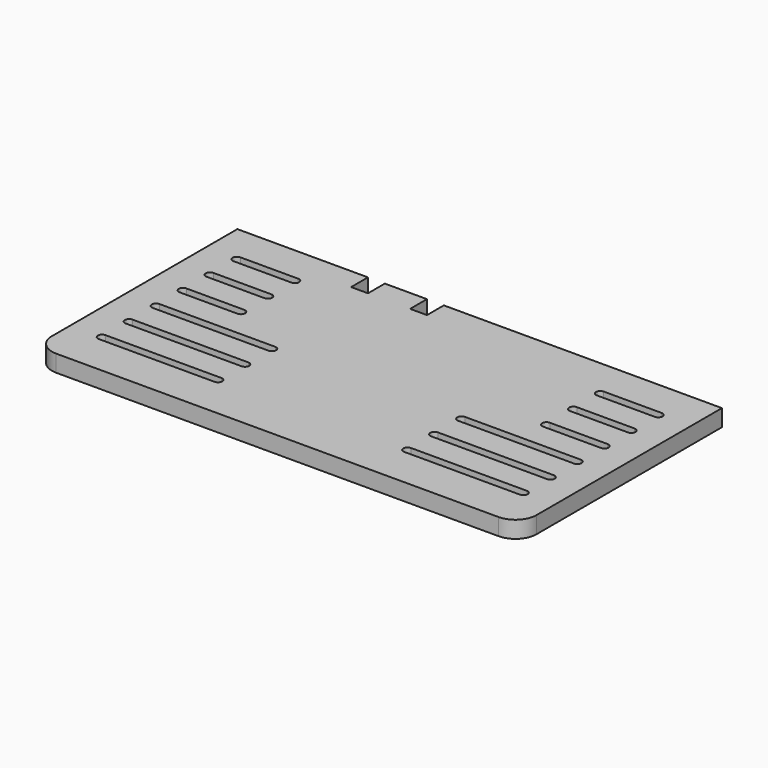
from build123d import *

# Parameters (mm, degrees)
F1_DEPTH = 8
F2_R     = 10


with BuildPart() as f1:
    # F0 (on Top) → F1 (new body)
    with BuildSketch(Plane.XY):
        Polygon((16.4421471655, -13.5372191966), (-45.5578528345, -13.5372191966), (-45.5578528345, -133.5372191966), (184.4421471655, -133.5372191966), (184.4421471655, -13.5372191966), (52.4421471655, -13.5372191966), (52.4421471655, -23.5372191966), (44.4421471655, -23.5372191966), (44.4421471655, -13.5372191966), (24.4421471655, -13.5372191966), (24.4421471655, -23.5372191966), (16.4421471655, -23.5372191966), align=None)
        with BuildLine():
            ThreePointArc((-30.5578528345, -114.5372191966), (-32.5578528345, -112.5372191966), (-30.5578528345, -110.5372191966))
            Line((-30.5578528345, -110.5372191966), (24.4421471655, -110.5372191966))
            ThreePointArc((24.4421471655, -110.5372191966), (26.4421471655, -112.5372191966), (24.4421471655, -114.5372191966))
            Line((24.4421471655, -114.5372191966), (-30.5578528345, -114.5372191966))
        make_face(mode=Mode.SUBTRACT)
        with BuildLine():
            ThreePointArc((-30.5578528345, -98.5372191966), (-32.5578528345, -96.5372191966), (-30.5578528345, -94.5372191966))
            Line((-30.5578528345, -94.5372191966), (24.4421471655, -94.5372191966))
            ThreePointArc((24.4421471655, -94.5372191966), (26.4421471655, -96.5372191966), (24.4421471655, -98.5372191966))
            Line((24.4421471655, -98.5372191966), (-30.5578528345, -98.5372191966))
        make_face(mode=Mode.SUBTRACT)
        with BuildLine():
            Line((24.4421471655, -82.5372191966), (-30.5578528345, -82.5372191966))
            ThreePointArc((-30.5578528345, -82.5372191966), (-32.5578528345, -80.5372191966), (-30.5578528345, -78.5372191966))
            Line((-30.5578528345, -78.5372191966), (24.4421471655, -78.5372191966))
            ThreePointArc((24.4421471655, -78.5372191966), (26.4421471655, -80.5372191966), (24.4421471655, -82.5372191966))
        make_face(mode=Mode.SUBTRACT)
        with BuildLine():
            ThreePointArc((169.4421471655, -110.5372191966), (171.4421471655, -112.5372191966), (169.4421471655, -114.5372191966))
            Line((169.4421471655, -114.5372191966), (114.4421471655, -114.5372191966))
            ThreePointArc((114.4421471655, -114.5372191966), (112.4421471655, -112.5372191966), (114.4421471655, -110.5372191966))
            Line((114.4421471655, -110.5372191966), (169.4421471655, -110.5372191966))
        make_face(mode=Mode.SUBTRACT)
        with BuildLine():
            ThreePointArc((169.4421471655, -94.5372191966), (171.4421471655, -96.5372191966), (169.4421471655, -98.5372191966))
            Line((169.4421471655, -98.5372191966), (114.4421471655, -98.5372191966))
            ThreePointArc((114.4421471655, -98.5372191966), (112.4421471655, -96.5372191966), (114.4421471655, -94.5372191966))
            Line((114.4421471655, -94.5372191966), (169.4421471655, -94.5372191966))
        make_face(mode=Mode.SUBTRACT)
        with BuildLine():
            ThreePointArc((169.4421471655, -78.5372191966), (171.4421471655, -80.5372191966), (169.4421471655, -82.5372191966))
            Line((169.4421471655, -82.5372191966), (114.4421471655, -82.5372191966))
            ThreePointArc((114.4421471655, -82.5372191966), (112.4421471655, -80.5372191966), (114.4421471655, -78.5372191966))
            Line((114.4421471655, -78.5372191966), (169.4421471655, -78.5372191966))
        make_face(mode=Mode.SUBTRACT)
        with BuildLine():
            Line((-3.0578528345, -66.5372191966), (-30.5578528345, -66.5372191966))
            ThreePointArc((-30.5578528345, -66.5372191966), (-32.5578528345, -64.5372191966), (-30.5578528345, -62.5372191966))
            Line((-30.5578528345, -62.5372191966), (-3.0578528345, -62.5372191966))
            ThreePointArc((-3.0578528345, -62.5372191966), (-1.0578528345, -64.5372191966), (-3.0578528345, -66.5372191966))
        make_face(mode=Mode.SUBTRACT)
        with BuildLine():
            Line((-3.0578528345, -50.5372191966), (-30.5578528345, -50.5372191966))
            ThreePointArc((-30.5578528345, -50.5372191966), (-32.5578528345, -48.5372191966), (-30.5578528345, -46.5372191966))
            Line((-30.5578528345, -46.5372191966), (-3.0578528345, -46.5372191966))
            ThreePointArc((-3.0578528345, -46.5372191966), (-1.0578528345, -48.5372191966), (-3.0578528345, -50.5372191966))
        make_face(mode=Mode.SUBTRACT)
        with BuildLine():
            Line((-3.0578528345, -34.5372191966), (-30.5578528345, -34.5372191966))
            ThreePointArc((-30.5578528345, -34.5372191966), (-32.5578528345, -32.5372191966), (-30.5578528345, -30.5372191966))
            Line((-30.5578528345, -30.5372191966), (-3.0578528345, -30.5372191966))
            ThreePointArc((-3.0578528345, -30.5372191966), (-1.0578528345, -32.5372191966), (-3.0578528345, -34.5372191966))
        make_face(mode=Mode.SUBTRACT)
        with BuildLine():
            ThreePointArc((169.4421471655, -62.5372191966), (171.4421471655, -64.5372191966), (169.4421471655, -66.5372191966))
            Line((169.4421471655, -66.5372191966), (141.9421471655, -66.5372191966))
            ThreePointArc((141.9421471655, -66.5372191966), (139.9421471655, -64.5372191966), (141.9421471655, -62.5372191966))
            Line((141.9421471655, -62.5372191966), (169.4421471655, -62.5372191966))
        make_face(mode=Mode.SUBTRACT)
        with BuildLine():
            ThreePointArc((169.4421471655, -46.5372191966), (171.4421471655, -48.5372191966), (169.4421471655, -50.5372191966))
            Line((169.4421471655, -50.5372191966), (141.9421471655, -50.5372191966))
            ThreePointArc((141.9421471655, -50.5372191966), (139.9421471655, -48.5372191966), (141.9421471655, -46.5372191966))
            Line((141.9421471655, -46.5372191966), (169.4421471655, -46.5372191966))
        make_face(mode=Mode.SUBTRACT)
        with BuildLine():
            ThreePointArc((169.4421471655, -30.5372191966), (171.4421471655, -32.5372191966), (169.4421471655, -34.5372191966))
            Line((169.4421471655, -34.5372191966), (141.9421471655, -34.5372191966))
            ThreePointArc((141.9421471655, -34.5372191966), (139.9421471655, -32.5372191966), (141.9421471655, -30.5372191966))
            Line((141.9421471655, -30.5372191966), (169.4421471655, -30.5372191966))
        make_face(mode=Mode.SUBTRACT)
    extrude(amount=F1_DEPTH)

    # F2
    f2_edges = [f1.edges().sort_by_distance(p)[0] for p in [
        (-45.557853, -133.537219, 4),
        (184.442147, -133.537219, 4),
    ]]
    fillet(f2_edges, radius=F2_R)


solid = f1.part
